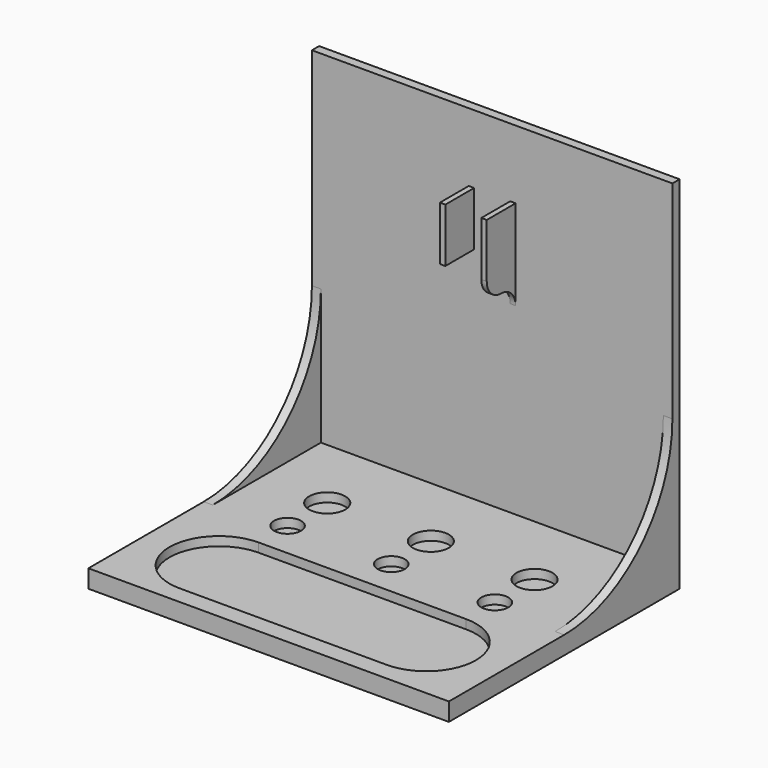
from build123d import *

# Parameters (mm, degrees)
SKETCH_W      = 200
SKETCH_H      = 160
PAD_DEPTH     = 10
SKETCH001_R   = 7.5
SKETCH001_R_2 = 10
POCKET_DEPTH  = 5
SKETCH002_W   = 200
SKETCH002_H   = 5
PAD001_DEPTH  = 190
PAD002_DEPTH  = 5
PAD003_DEPTH  = 5
SKETCH005_W   = 3
SKETCH005_H   = 30
PAD004_DEPTH  = 20
PAD005_DEPTH  = 3


with BuildPart() as part:
    # Sketch → Pad (new body)
    with BuildSketch(Plane.XY):
        Rectangle(SKETCH_W, SKETCH_H)
    extrude(amount=PAD_DEPTH)

    # Sketch001 → Pocket (cut)
    with BuildSketch(Plane.XY.offset(10)):
        with Locations((57.5, 5)):
            Circle(SKETCH001_R)
        with Locations((0, 5)):
            Circle(SKETCH001_R)
        with Locations((-57.5, 5)):
            Circle(SKETCH001_R)
        with Locations((-57.5, 32.5)):
            Circle(SKETCH001_R_2)
        with Locations((0, 32.5)):
            Circle(SKETCH001_R_2)
        with Locations((57.5, 32.5)):
            Circle(SKETCH001_R_2)
        with BuildLine():
            ThreePointArc((-57.5, -15), (-85, -42.5), (-57.5, -70))
            Line((-57.5, -70), (57.5, -70))
            ThreePointArc((57.5, -70), (85, -42.5), (57.5, -15))
            Line((-57.5, -15), (57.5, -15))
        make_face()
    extrude(amount=-POCKET_DEPTH, mode=Mode.SUBTRACT)

    # Sketch002 → Pad001 (new body)
    with BuildSketch(Plane.XY.offset(10)):
        with Locations((0, 77.5)):
            Rectangle(SKETCH002_W, SKETCH002_H)
    extrude(amount=PAD001_DEPTH)

    # Sketch003 → Pad002 (new body)
    with BuildSketch(Plane.YZ.offset(100)):
        with BuildLine():
            Line((75, 10), (0, 10))
            ThreePointArc((0, 10), (53.033009, 31.966991), (75, 85))
            Line((75, 10), (75, 85))
        make_face()
    extrude(amount=-PAD002_DEPTH)

    # Sketch004 → Pad003 (new body)
    with BuildSketch(Plane(origin=(-100, 0, 0), x_dir=(0, -1, 0), z_dir=(-1, 0, 0))):
        with BuildLine():
            Line((-75, 10), (0, 10))
            ThreePointArc((-75, 85), (-53.033009, 31.966991), (0, 10))
            Line((-75, 10), (-75, 85))
        make_face()
    extrude(amount=-PAD003_DEPTH)

    # Sketch005 → Pad004 (new body)
    with BuildSketch(Plane.XZ.offset(-75)):
        with Locations((-11.5, 147)):
            Rectangle(SKETCH005_W, SKETCH005_H)
        with Locations((11.5, 147)):
            Rectangle(SKETCH005_W, SKETCH005_H)
    extrude(amount=PAD004_DEPTH)

    # Sketch006 → Pad005 (new body)
    with BuildSketch(Plane.YZ.offset(13)):
        with BuildLine():
            ThreePointArc((55, 132), (57.928932, 124.928932), (65, 122))
            ThreePointArc((74.999966, 111.999966), (72.071058, 119.071044), (65, 122))
            Line((75, 132), (74.999966, 111.999966))
            Line((55, 132), (75, 132))
        make_face()
    extrude(amount=-PAD005_DEPTH)


solid = part.part
